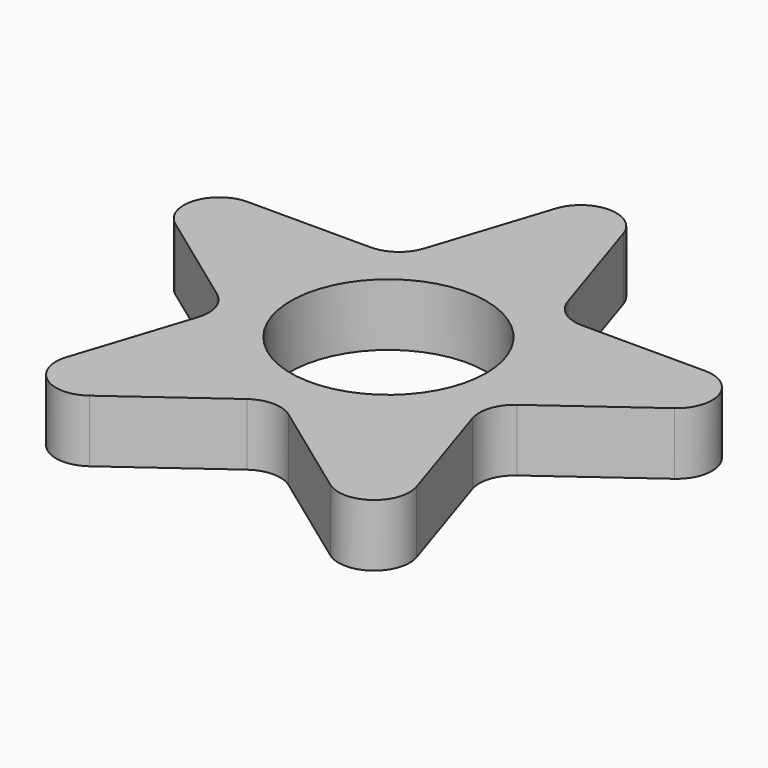
from build123d import *

# Parameters (mm, degrees)
F0_R     = 11
F1_DEPTH = 7


with BuildPart() as f1:
    # F0 (on Top) → F1 (new body)
    with BuildSketch(Plane.XY):
        with BuildLine():
            ThreePointArc((3.804226, 28.291796), (0, 31.055728), (-3.804226, 28.291796))
            Line((-3.804226, 28.291796), (-8.082504, 15.124612))
            ThreePointArc((-8.082504, 15.124612), (-9.535589, 13.124612), (-11.88673, 12.36068))
            Line((-11.88673, 12.36068), (-25.731527, 12.36068))
            ThreePointArc((-25.731527, 12.36068), (-29.535753, 9.596748), (-28.082668, 5.124612))
            Line((-28.082668, 5.124612), (-16.881992, -3.013156))
            ThreePointArc((-16.881992, -3.013156), (-15.428907, -5.013156), (-15.428907, -7.485292))
            Line((-15.428907, -7.485292), (-19.707184, -20.652476))
            ThreePointArc((-19.707184, -20.652476), (-18.254099, -25.124612), (-13.551817, -25.124612))
            Line((-13.551817, -25.124612), (-2.351141, -16.986844))
            ThreePointArc((-2.351141, -16.986844), (0, -16.222912), (2.351141, -16.986844))
            Line((2.351141, -16.986844), (13.551817, -25.124612))
            ThreePointArc((13.551817, -25.124612), (18.254099, -25.124612), (19.707184, -20.652476))
            Line((19.707184, -20.652476), (15.428907, -7.485292))
            ThreePointArc((15.428907, -7.485292), (15.428907, -5.013156), (16.881992, -3.013156))
            Line((16.881992, -3.013156), (28.082668, 5.124612))
            ThreePointArc((28.082668, 5.124612), (29.535753, 9.596748), (25.731527, 12.36068))
            Line((25.731527, 12.36068), (11.88673, 12.36068))
            ThreePointArc((11.88673, 12.36068), (9.535589, 13.124612), (8.082504, 15.124612))
            Line((8.082504, 15.124612), (3.804226, 28.291796))
        make_face()
        Circle(F0_R, mode=Mode.SUBTRACT)
    extrude(amount=-F1_DEPTH)


solid = f1.part
